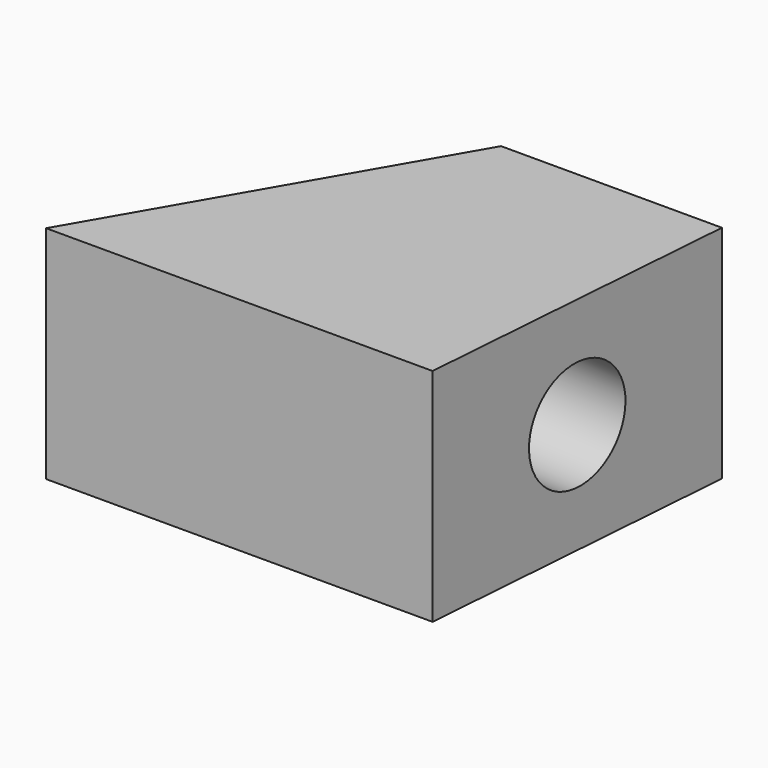
from build123d import *

# Parameters (mm, degrees)
F1_DEPTH = 20
F2_R     = 5
F3_DEPTH = 37.164891


with BuildPart() as f1:
    # F0 (on Top) → F1 (new body)
    with BuildSketch(Plane.XY):
        Polygon((17.270817, 29.913933), (0, 0), (35, 0), (37.270817, 29.913933), align=None)
    extrude(amount=F1_DEPTH)

    # F2 (on face) → F3 (cut, through all)
    with BuildSketch(Plane(origin=(34.799465, -2.641686, 0), x_dir=(0.075694, 0.997131, 0), z_dir=(0.997131, -0.075694, 0))):
        with Locations((17.649287, 10)):
            Circle(F2_R)
    extrude(amount=-F3_DEPTH, mode=Mode.SUBTRACT)


solid = f1.part
